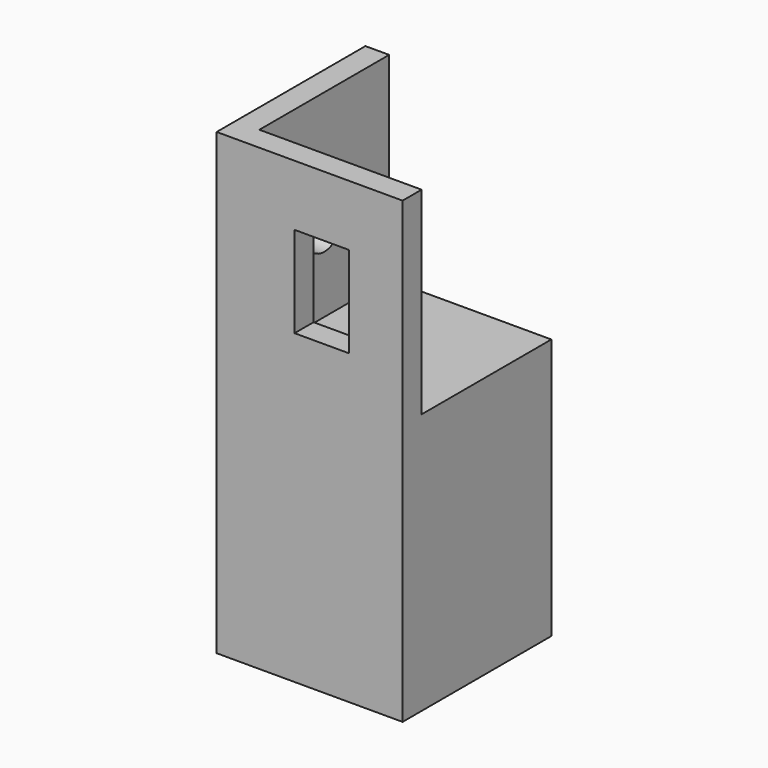
from build123d import *

# Parameters (mm, degrees)
F0_W      = 24.5
F0_H      = 24.5
F1_DEPTH  = 58
F2_W      = 20.3
F2_H      = 20.3
F3_DEPTH  = 6
F4_W      = 20.5
F4_H      = 20.5
F5_DEPTH  = 30
F7_D      = 5.5
F8_W      = 6.4
F8_H      = 10
F9_DEPTH  = 25
F10_DEPTH = 5
F11_DEPTH = 0.25
F12_DEPTH = 0.25
F13_DEPTH = 1.5
F14_DEPTH = 1
F15_DEPTH = 1
F16_DEPTH = 2


with BuildPart() as f1:
    # F0 (on Top) → F1 (new body)
    with BuildSketch(Plane.XY):
        Rectangle(F0_W, F0_H)
    extrude(amount=F1_DEPTH)

    # F2 (on face) → F3 (cut)
    with BuildSketch(Plane(origin=(0, 0, 0), x_dir=(1, 0, 0), z_dir=(0, 0, -1))):
        Rectangle(F2_W, F2_H)
    extrude(amount=-F3_DEPTH, mode=Mode.SUBTRACT)

    # F4 (on face) → F5 (cut)
    with BuildSketch(Plane.XY.offset(58)):
        with Locations((2, 2)):
            Rectangle(F4_W, F4_H)
    extrude(amount=-F5_DEPTH, mode=Mode.SUBTRACT)

    # F7 (through all)
    with Locations(Plane.YZ.offset(-8.25)):
        with Locations((2, 43)):
            Hole(F7_D / 2)

    # F8 (on face) → F9 (cut)
    with BuildSketch(Plane(origin=(0, -8.25, 0), x_dir=(-1, 0, 0), z_dir=(0, 1, 0))):
        with Locations((-2.0447701301, 43.8107866645)):
            Rectangle(F8_W, F8_H)
    extrude(amount=-F9_DEPTH, mode=Mode.SUBTRACT)

    # F10 (add): a face of the model
    f10_faces = [f1.faces().sort_by_distance(p)[0] for p in [
        (2, 2, 28),
    ]]
    extrude(f10_faces, amount=F10_DEPTH)

    # F11 (cut): a face of the model
    f11_faces = [f1.faces().sort_by_distance(p)[0] for p in [
        (-1.1552298699, -10.25, 43.8107866645),
    ]]
    extrude(f11_faces, amount=-F11_DEPTH, mode=Mode.SUBTRACT)

    # F12 (cut): a face of the model
    f12_faces = [f1.faces().sort_by_distance(p)[0] for p in [
        (5.2447701301, -10.25, 43.8107866645),
    ]]
    extrude(f12_faces, amount=-F12_DEPTH, mode=Mode.SUBTRACT)

    # F13 (cut): a face of the model
    f13_faces = [f1.faces().sort_by_distance(p)[0] for p in [
        (2.0447701301, -10.25, 48.8107866645),
    ]]
    extrude(f13_faces, amount=-F13_DEPTH, mode=Mode.SUBTRACT)

    # F14 (cut): a face of the model
    f14_faces = [f1.faces().sort_by_distance(p)[0] for p in [
        (-12.25, -0.0340074224, 28.7619480432),
    ]]
    extrude(f14_faces, amount=-F14_DEPTH, mode=Mode.SUBTRACT)

    # F15 (cut): a face of the model
    f15_faces = [f1.faces().sort_by_distance(p)[0] for p in [
        (0.4045086201, -12.25, 28.0380957256),
    ]]
    extrude(f15_faces, amount=-F15_DEPTH, mode=Mode.SUBTRACT)

    # F16 (cut): a face of the model
    f16_faces = [f1.faces().sort_by_distance(p)[0] for p in [
        (0, 0, 6),
    ]]
    extrude(f16_faces, amount=-F16_DEPTH, mode=Mode.SUBTRACT)


solid = f1.part
